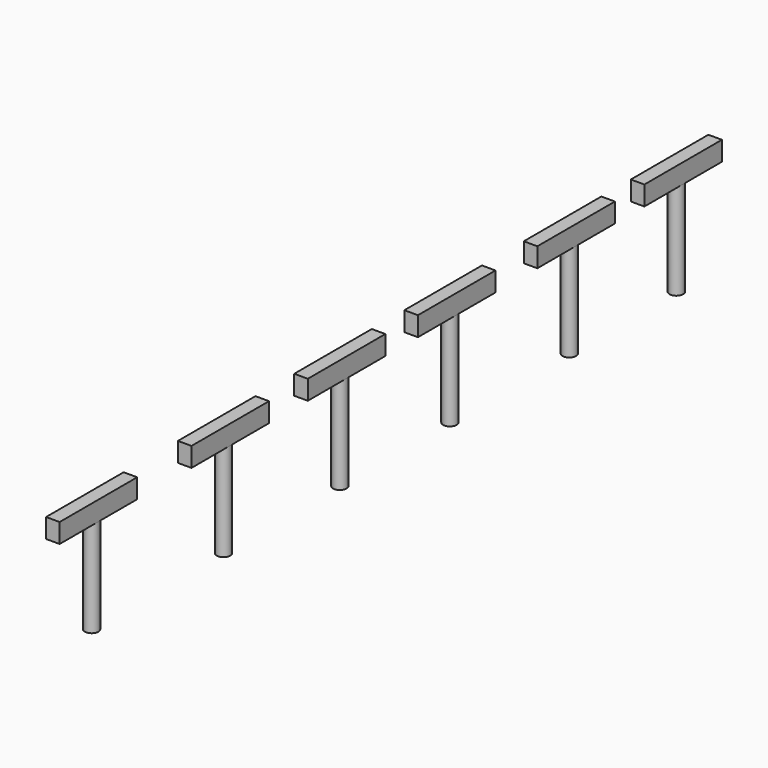
from build123d import *

# Parameters (mm, degrees)
F0_R     = 0.889
F1_DEPTH = 12.7
F3_W     = 1.778
F3_H     = 2.54
F4_DEPTH = 12.7


with BuildPart() as f1:
    # F0 (on Top) → F1 (new body)
    with BuildSketch(Plane.XY):
        Circle(F0_R)
    extrude(amount=-F1_DEPTH)

    # F3 (on offset) → F4 (join)
    with BuildSketch(Plane.XZ.offset(6.35)):
        with Locations((0, 1.27)):
            Rectangle(F3_W, F3_H)
    extrude(amount=-F4_DEPTH)


with BuildPart() as f5_1:
    # F5: copy of F1
    add(f1.part.moved(Location((0, 19.558, 0))))


with BuildPart() as f6_1:
    # F6: copy of F5_1
    add(f5_1.part.moved(Location((0, 17.526, 0))))


with BuildPart() as f7_1:
    # F7: copy of F6_1
    add(f6_1.part.moved(Location((0, -55.118, 0))))


with BuildPart() as f8_1:
    # F8: copy of F7_1
    add(f7_1.part.moved(Location((0, -19.05, 0))))


with BuildPart() as f9_1:
    # F9: copy of F8_1
    add(f8_1.part.moved(Location((0, -21.59, 0))))


solid = Compound([f1.part, f5_1.part, f6_1.part, f7_1.part, f8_1.part, f9_1.part])
